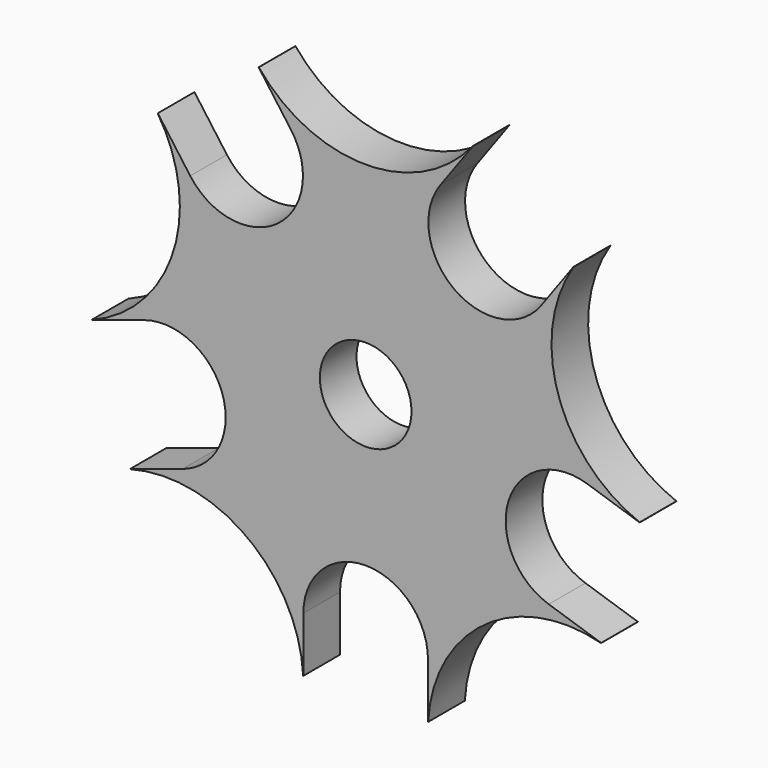
from build123d import *

# Parameters (mm, degrees)
F0_R     = 6.35
F1_DEPTH = 6.35


with BuildPart() as f1:
    # F0 (on Front) → F1 (new body)
    with BuildSketch(Plane.XZ):
        with BuildLine():
            ThreePointArc((8.63127, -37.109449), (8.644315, -37.106412), (8.657358, -37.103371))
            ThreePointArc((8.657358, -37.103371), (16.483961, -22.688226), (32.612132, -19.699209))
            ThreePointArc((32.612132, -19.699209), (32.619055, -19.687744), (32.625974, -19.676276))
            Line((32.625974, -19.676276), (25.359218, -17.315164))
            ThreePointArc((25.359218, -17.315164), (19.817602, -6.439129), (30.693637, -0.897512))
            Line((30.693637, -0.897512), (37.960392, -3.258624))
            ThreePointArc((37.960392, -3.258624), (37.961535, -3.24528), (37.962674, -3.231935))
            ThreePointArc((37.962674, -3.231935), (26.67161, 8.666131), (28.812764, 24.92859))
            ThreePointArc((28.812764, 24.92859), (28.803999, 24.938717), (28.795231, 24.948841))
            Line((28.795231, 24.948841), (24.304129, 18.76737))
            ThreePointArc((24.304129, 18.76737), (12.247951, 16.857859), (10.33844, 28.914037))
            Line((10.33844, 28.914037), (14.829542, 35.095508))
            ThreePointArc((14.829542, 35.095508), (14.817204, 35.100719), (14.804864, 35.105925))
            ThreePointArc((14.804864, 35.105925), (0, 28.04419), (-14.804864, 35.105925))
            ThreePointArc((-14.804864, 35.105925), (-14.817204, 35.100719), (-14.829542, 35.095508))
            Line((-14.829542, 35.095508), (-10.33844, 28.914037))
            ThreePointArc((-10.33844, 28.914037), (-9.112459, 26.507912), (-8.690014, 23.840703))
            ThreePointArc((-8.690014, 23.840703), (-14.654076, 15.631877), (-24.304129, 18.76737))
            Line((-24.304129, 18.76737), (-28.795231, 24.948841))
            ThreePointArc((-28.795231, 24.948841), (-28.803999, 24.938717), (-28.812764, 24.92859))
            ThreePointArc((-28.812764, 24.92859), (-26.523773, 19.963575), (-25.739236, 14.552905))
            ThreePointArc((-25.739236, 14.552905), (-29.089738, 3.762713), (-37.962674, -3.231935))
            ThreePointArc((-37.962674, -3.231935), (-37.961535, -3.24528), (-37.960392, -3.258624))
            Line((-37.960392, -3.258624), (-30.693637, -0.897512))
            ThreePointArc((-30.693637, -0.897512), (-22.953094, -2.123494), (-19.395157, -9.106338))
            ThreePointArc((-19.395157, -9.106338), (-21.043583, -14.179672), (-25.359218, -17.315164))
            Line((-25.359218, -17.315164), (-32.625974, -19.676276))
            ThreePointArc((-32.625974, -19.676276), (-32.619055, -19.687744), (-32.612132, -19.699209))
            ThreePointArc((-32.612132, -19.699209), (-16.483961, -22.688226), (-8.657358, -37.103371))
            ThreePointArc((-8.657358, -37.103371), (-8.644315, -37.106412), (-8.63127, -37.109449))
            Line((-8.63127, -37.109449), (-8.63127, -29.46873))
            ThreePointArc((-8.63127, -29.46873), (0, -20.837459), (8.63127, -29.46873))
            Line((8.63127, -29.46873), (8.63127, -37.109449))
        make_face()
        Circle(F0_R, mode=Mode.SUBTRACT)
    extrude(amount=F1_DEPTH)


solid = f1.part
